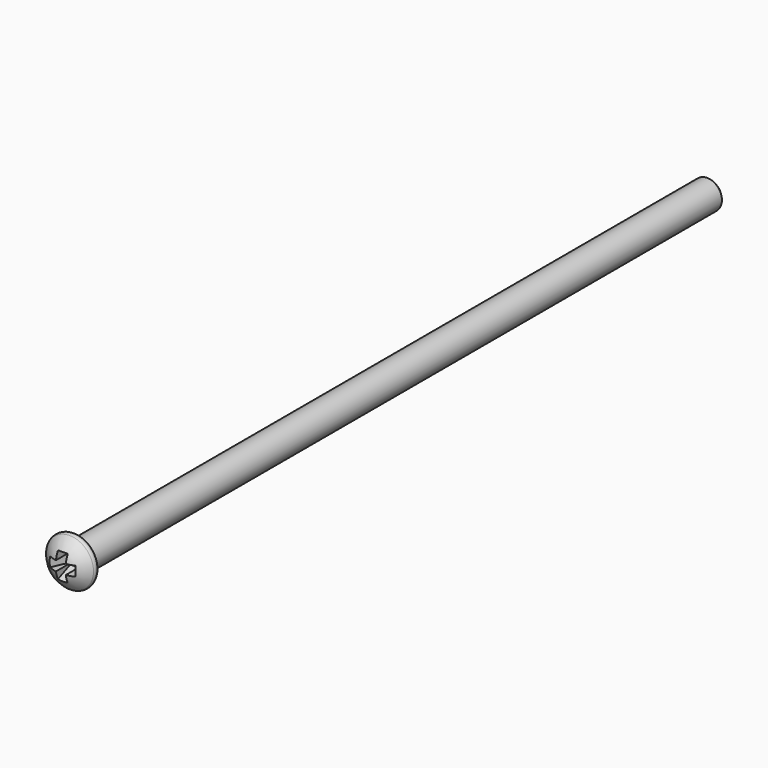
from build123d import *

# Parameters (mm, degrees)
PAD009_DEPTH            = 0.5
BODY005_PLACEMENT_ANGLE = 90
PAD008_DEPTH            = 0.5


with BuildPart() as body005:
    # Sketch021 → Pad009 (new body, symmetric)
    with BuildSketch(Plane.XY):
        Polygon((-2.15, -3.5), (2.15, -3.5), (0.625, 0), (-0.625, 0), align=None)
    extrude(amount=PAD009_DEPTH, both=True)


with BuildPart() as body005_1:
    # Body005 placement: moved
    add(body005.part.rotate(Axis((0, 0, 0), (0, -1, 0)), BODY005_PLACEMENT_ANGLE))


with BuildPart() as fusion:
    # Sketch020 → Pad008 (new body, symmetric)
    with BuildSketch(Plane.XY):
        Polygon((-2.15, -3.5), (2.15, -3.5), (0.625, 0), (-0.625, 0), align=None)
    extrude(amount=PAD008_DEPTH, both=True)

    # Fusion: union Body005
    add(body005_1.part)


with BuildPart() as body007:
    # Sketch019 → Revolution (revolve)
    with BuildSketch(Plane.XY):
        with BuildLine():
            Line((1.5, 0), (1.5, 80.5))
            Line((1.5, 80.5), (1, 81))
            Line((1, 81), (0, 81))
            Line((0, 81), (0, -1.9))
            ThreePointArc((0, -1.9), (1.354762, -1.576681), (2.417511, -0.676413))
            ThreePointArc((2.417511, -0.676413), (2.454213, -0.232991), (2.075154, 0))
            Line((1.5, 0), (2.075154, 0))
        make_face()
    revolve(axis=Axis((0, 0, 0), (0, 1, 0)))

    # Cut: cut Fusion
    add(fusion.part, mode=Mode.SUBTRACT)


with BuildPart() as body007_1:
    # Cut placement: moved
    add(body007.part.moved(Location((-15.9, 3, 25.5))))


with BuildPart() as body007_2:
    # Clone001 placement: moved
    add(body007_1.part.moved(Location((15.9, 0, -25.5))))


with BuildPart() as body007_3:
    # Body007 placement: moved
    add(body007_2.part.moved(Location((-15.9, 0, -25.5))))


solid = body007_3.part
